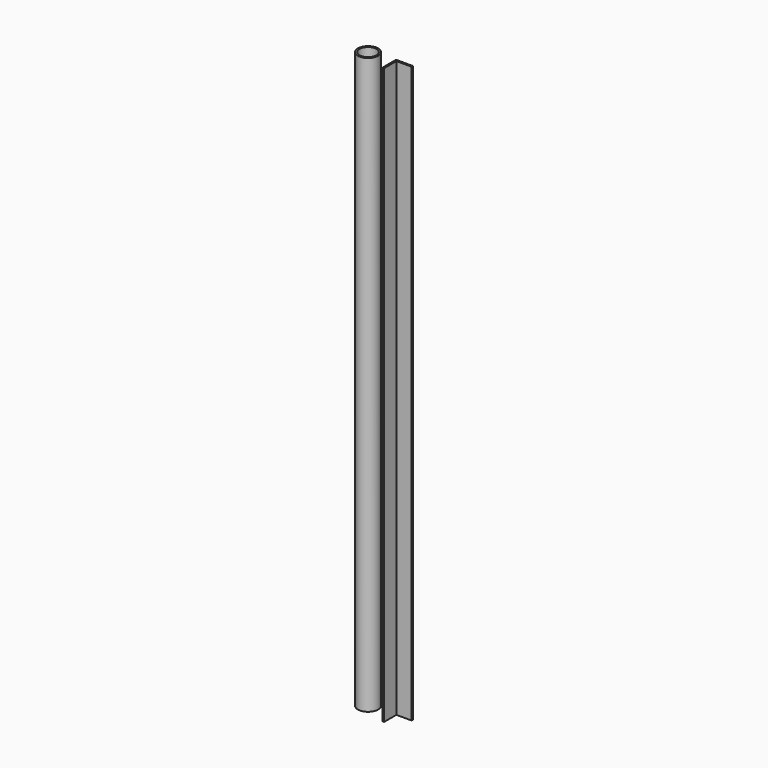
from build123d import *

# Parameters (mm, degrees)
F0_R     = 12
F1_DEPTH = 680
F2_D     = 20


with BuildPart() as f1:
    # F0 (on Top) → F1 (new body)
    with BuildSketch(Plane.XY):
        Circle(F0_R)
        Polygon((31.725574, 4.17764), (29.725574, 4.17764), (29.725574, 2.17764), (29.725574, -15.82236), (31.725574, -15.82236), (31.725574, 2.17764), (49.725574, 2.17764), (49.725574, 4.17764), align=None)
    extrude(amount=F1_DEPTH)

    # F2 (through all)
    with Locations(Plane(origin=(0, 0, 0), x_dir=(1, 0, 0), z_dir=(0, 0, -1))):
        with Locations((0, 0)):
            Hole(F2_D / 2)


solid = f1.part
